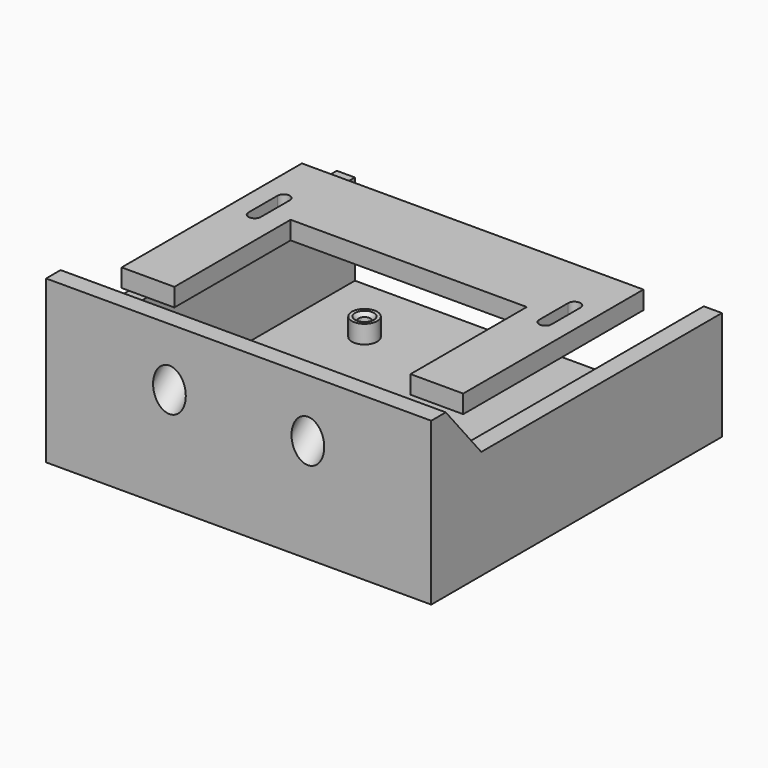
from build123d import *

# Parameters (mm, degrees)
SKETCH_W        = 106
SKETCH_H        = 100
PAD_DEPTH       = 5
PAD001_DEPTH    = 25
SKETCH002_R     = 3.5
SKETCH002_R_2   = 1.6
PAD002_DEPTH    = 5
PAD004_DEPTH    = 106
PAD005_DEPTH    = 96
SKETCH006_R     = 2.75
POCKET_DEPTH    = 32.4705241598
SKETCH007_R     = 4.5
POCKET001_DEPTH = 26.4705241598
FILLET_R        = 5
CHAMFER_SIZE    = 1
PAD003_DEPTH    = 5


with BuildPart() as body:
    # Sketch → Pad (new body)
    with BuildSketch(Plane.XY):
        with Locations((53, 50)):
            Rectangle(SKETCH_W, SKETCH_H)
    extrude(amount=-PAD_DEPTH)

    # Sketch001 (on Face5 of Pad) → Pad001 (join)
    with BuildSketch(Plane.XY):
        Polygon((5, 95), (5, 10), (101, 10), (101, 95), (101, 100), (106, 100), (106, 0), (0, 0), (0, 100), (5, 100), align=None)
    extrude(amount=PAD001_DEPTH)

    # Sketch002 (on Face5 of Pad001) → Pad002 (join)
    with BuildSketch(Plane.XY):
        with Locations((83, 80.8)):
            Circle(SKETCH002_R)
        with Locations((83, 80.8)):
            Circle(SKETCH002_R_2, mode=Mode.SUBTRACT)
        with Locations((94.6, 17.2)):
            Circle(SKETCH002_R)
        with Locations((94.6, 17.2)):
            Circle(SKETCH002_R_2, mode=Mode.SUBTRACT)
        with Locations((12.5, 17.2)):
            Circle(SKETCH002_R)
        with Locations((12.5, 17.2)):
            Circle(SKETCH002_R_2, mode=Mode.SUBTRACT)
        with Locations((23, 80.8)):
            Circle(SKETCH002_R)
        with Locations((23, 80.8)):
            Circle(SKETCH002_R_2, mode=Mode.SUBTRACT)
    extrude(amount=PAD002_DEPTH)

    # Sketch004 (on Face5 of Pad002) → Pad004 (join)
    with BuildSketch(Plane(origin=(0, 0, 0), x_dir=(0, -1, 0), z_dir=(-1, 0, 0))):
        Polygon((-17.212964584, 25), (-5, 39.5548444193), (0, 39.5548444193), (0, 25), align=None)
    extrude(amount=-PAD004_DEPTH)

    # Sketch005 (on Face7 of Pad004) → Pad005 (join)
    with BuildSketch(Plane.YZ.offset(5)):
        with BuildLine():
            Line((10, 10.5740708319), (10, 25))
            Line((10, 25), (17.212964584, 25))
            ThreePointArc((16.2466105664, 21.393517708), (16.9671887758, 23.133147394), (17.212964584, 25))
            Line((16.2466105664, 21.393517708), (10, 10.5740708319))
        make_face()
    extrude(amount=PAD005_DEPTH)

    # Sketch006 (on Face5 of Pad005) → Pocket (cut, through all)
    with BuildSketch(Plane(origin=(0, 22.4110791708, 18.8051282665), x_dir=(-1, 0, 0), z_dir=(0, 0.7660444431, 0.6427876097))):
        with Locations((-72.05, 18.0868307174)):
            Circle(SKETCH006_R)
        with Locations((-33.95, 18.0868307174)):
            Circle(SKETCH006_R)
    extrude(amount=-POCKET_DEPTH, mode=Mode.SUBTRACT)

    # Sketch007 (on Face5 of Pocket) → Pocket001 (cut, through all)
    with BuildSketch(Plane(origin=(0, 17.8148125121, 14.9484026084), x_dir=(-1, 0, 0), z_dir=(0, 0.7660444431, 0.6427876097))):
        with Locations((-72.05, 18.0868307174)):
            Circle(SKETCH007_R)
        with Locations((-33.95, 18.0868307174)):
            Circle(SKETCH007_R)
    extrude(amount=-POCKET001_DEPTH, mode=Mode.SUBTRACT)

    # Fillet
    fillet_edges = [body.edges().sort_by_distance(p)[0] for p in [
        (53, 10, 10.574071),
    ]]
    fillet(fillet_edges, radius=FILLET_R)

    # Chamfer
    chamfer_edges = [body.edges().sort_by_distance(p)[0] for p in [
        (93, 17.2, 5),
        (10.9, 17.2, 5),
        (21.4, 80.8, 5),
        (81.4, 80.8, 5),
    ]]
    chamfer(chamfer_edges, length=CHAMFER_SIZE)


with BuildPart() as body001:
    # Sketch003 → Pad003 (new body)
    with BuildSketch(Plane.XY):
        Polygon((0, 0), (14.5, 0), (14.5, 40), (79.5, 40), (79.5, 0), (94, 0), (94, 62), (0, 62), align=None)
        with BuildLine():
            ThreePointArc((8.7, 47), (7, 48.7), (5.3, 47))
            Line((5.3, 47), (5.3, 37))
            ThreePointArc((5.3, 37), (7, 35.3), (8.7, 37))
            Line((8.7, 47), (8.7, 37))
        make_face(mode=Mode.SUBTRACT)
        with BuildLine():
            ThreePointArc((88.7, 47), (87, 48.7), (85.3, 47))
            Line((85.3, 47), (85.3, 37))
            ThreePointArc((85.3, 37), (87, 35.3), (88.7, 37))
            Line((88.7, 47), (88.7, 37))
        make_face(mode=Mode.SUBTRACT)
    extrude(amount=PAD003_DEPTH)


with BuildPart() as body001_1:
    # Body001 placement: moved
    add(body001.part.moved(Location((4, 21, 30))))


solid = Compound([body.part, body001_1.part])
